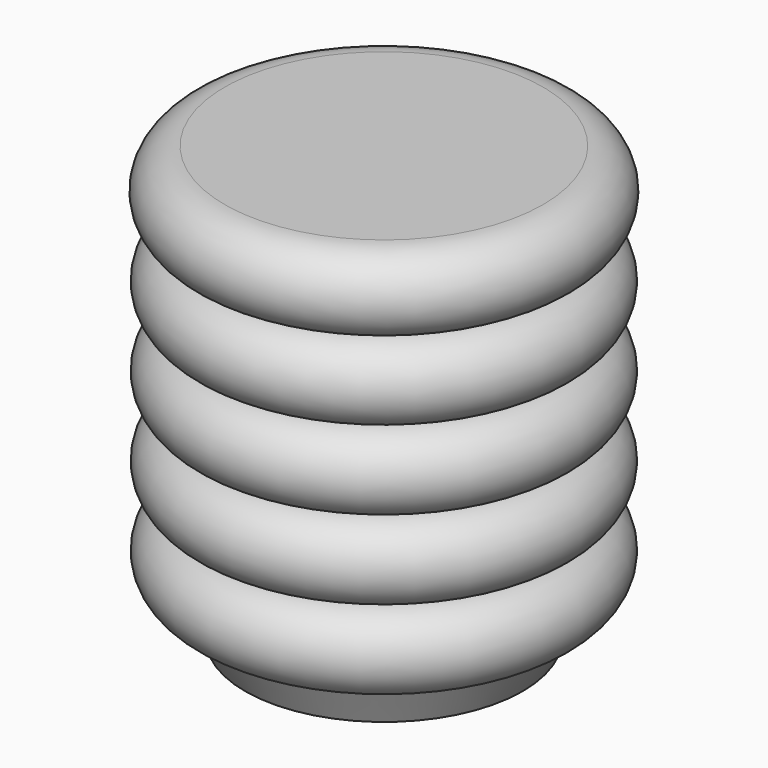
from build123d import *


with BuildPart() as f1:
    # F0 (on Front) → F1 (revolve)
    with BuildSketch(Plane.XZ):
        with BuildLine():
            Line((7.0224707015, -2), (8.0517075747, 0))
            ThreePointArc((8.0517075747, 0), (10.0000001117, 1.9993314728), (8.0517075747, 3.9986629457))
            ThreePointArc((8.0517075747, 3.9986629457), (10.0000001117, 5.9979944185), (8.0517075747, 7.9973258913))
            ThreePointArc((8.0517075747, 7.9973258913), (10.0000001117, 9.9966573642), (8.0517075747, 11.995988837))
            ThreePointArc((8.0517075747, 11.995988837), (10.0000010042, 13.9979944185), (8.0517075747, 16))
            ThreePointArc((8.0517075747, 16), (10.0517075747, 18), (8.0517075747, 20))
            Line((8.0517075747, 20), (0, 20))
            Line((0, 20), (0, 0))
            Line((0, 0), (0, -2))
            Line((0, -2), (7.0224707015, -2))
        make_face()
        with BuildLine():
            ThreePointArc((8.0517075747, 0), (8.0000001117, -0.0006685272), (7.9482926488, 0))
            Line((7.9482926488, 0), (8.0517075747, 0))
        make_face(mode=Mode.SUBTRACT)
        with BuildLine():
            ThreePointArc((7.9482926488, 3.9986629457), (8.0000001117, 3.9993314728), (8.0517075747, 3.9986629457))
            ThreePointArc((8.0517075747, 3.9986629457), (8.0000001117, 3.9979944185), (7.9482926488, 3.9986629457))
        make_face(mode=Mode.SUBTRACT)
        with BuildLine():
            ThreePointArc((7.9482926488, 7.9973258913), (8.0000001117, 7.9979944185), (8.0517075747, 7.9973258913))
            ThreePointArc((8.0517075747, 7.9973258913), (8.0000001117, 7.9966573642), (7.9482926488, 7.9973258913))
        make_face(mode=Mode.SUBTRACT)
        with BuildLine():
            ThreePointArc((7.945549454, 11.9959160083), (7.998628031, 11.9966568935), (8.0517075747, 11.995988837))
            ThreePointArc((8.0517075747, 11.995988837), (7.9986289969, 11.995248918), (7.945549454, 11.9959160083))
        make_face(mode=Mode.SUBTRACT)
        with BuildLine():
            ThreePointArc((7.9972923949, 16.00074039), (8.0245024997, 16.0005550301), (8.0517075747, 16))
            ThreePointArc((8.0517075747, 16), (8.0244974664, 16.0001851061), (7.9972923949, 16.00074039))
        make_face(mode=Mode.SUBTRACT)
        with BuildLine():
            ThreePointArc((7.945549454, 11.9959160083), (7.9986289969, 11.995248918), (8.0517075747, 11.995988837))
            ThreePointArc((8.0517075747, 11.995988837), (7.998628031, 11.9966568935), (7.945549454, 11.9959160083))
        make_face()
        with BuildLine():
            ThreePointArc((7.9482926488, 3.9986629457), (8.0000001117, 3.9979944185), (8.0517075747, 3.9986629457))
            ThreePointArc((8.0517075747, 3.9986629457), (8.0000001117, 3.9993314728), (7.9482926488, 3.9986629457))
        make_face()
        with BuildLine():
            ThreePointArc((7.9482926488, 7.9973258913), (8.0000001117, 7.9966573642), (8.0517075747, 7.9973258913))
            ThreePointArc((8.0517075747, 7.9973258913), (8.0000001117, 7.9979944185), (7.9482926488, 7.9973258913))
        make_face()
        with BuildLine():
            Line((8.0517075747, 0), (7.9482926488, 0))
            ThreePointArc((7.9482926488, 0), (8.0000001117, -0.0006685272), (8.0517075747, 0))
        make_face()
        with BuildLine():
            ThreePointArc((7.9972923949, 16.00074039), (8.0244974664, 16.0001851061), (8.0517075747, 16))
            ThreePointArc((8.0517075747, 16), (8.0245024997, 16.0005550301), (7.9972923949, 16.00074039))
        make_face()
    revolve(axis=Axis((0, 0, 0.1023025871), (0, 0, -1)))


solid = f1.part
